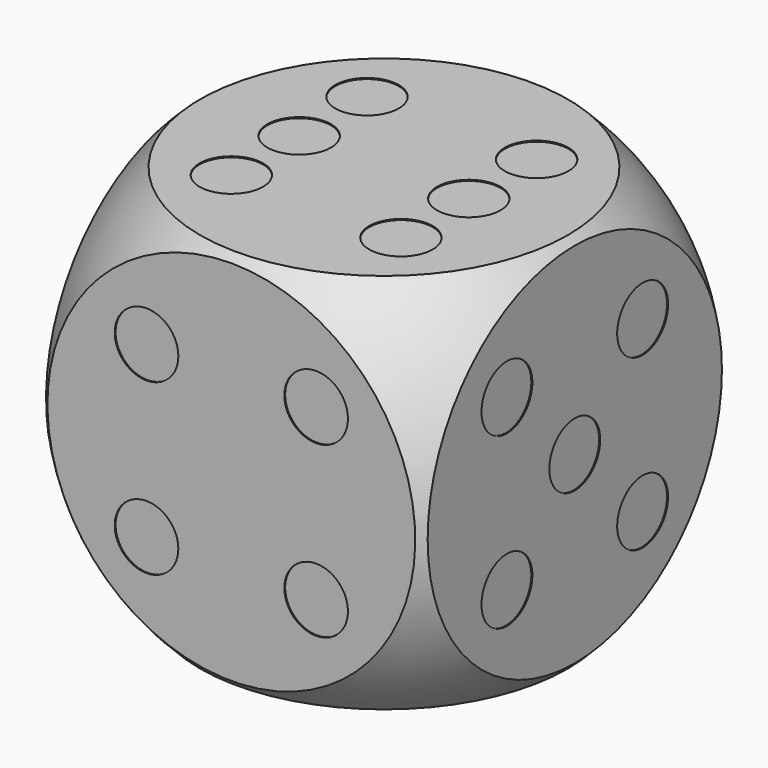
from build123d import *

# Parameters (mm, degrees)
BOX_W           = 36
BOX_H           = 36
BOX_DEPTH       = 36
SKETCH_R        = 3
POCKET_DEPTH    = 0.1
SKETCH001_R     = 3
POCKET001_DEPTH = 0.1
SKETCH002_R     = 3
POCKET002_DEPTH = 0.1
SKETCH003_R     = 3
POCKET003_DEPTH = 0.1
SKETCH004_R     = 3
POCKET004_DEPTH = 0.1
SKETCH005_R     = 3
POCKET005_DEPTH = 0.1


with BuildPart() as sphere:
    # Sphere → Sphere (revolve)
    with BuildSketch(Plane.XZ):
        with BuildLine():
            ThreePointArc((0, -25), (25, 0), (0, 25))
            Line((0, 25), (0, -25))
        make_face()
    revolve(axis=Axis((0, 0, 0), (0, 0, 1)))


with BuildPart() as body:
    # Box → Box (new body)
    with BuildSketch(Plane(origin=(-18, -18, -18), x_dir=(1, 0, 0), z_dir=(0, 0, 1))):
        with Locations((18, 18)):
            Rectangle(BOX_W, BOX_H)
    extrude(amount=BOX_DEPTH)

    # Common: intersect Sphere
    add(sphere.part, mode=Mode.INTERSECT)

    # Sketch (on Face3 of BaseFeature) → Pocket (cut)
    with BuildSketch(Plane.XY.offset(18)):
        with Locations((-8, 8)):
            Circle(SKETCH_R)
        with Locations((8, 8)):
            Circle(SKETCH_R)
        with Locations((8, -8)):
            Circle(SKETCH_R)
        with Locations((-8, -8)):
            Circle(SKETCH_R)
        with Locations((-8, 0)):
            Circle(SKETCH_R)
        with Locations((8, 0)):
            Circle(SKETCH_R)
    extrude(amount=-POCKET_DEPTH, mode=Mode.SUBTRACT)

    # Sketch001 (on Face4 of Pocket) → Pocket001 (cut)
    with BuildSketch(Plane.YZ.offset(18)):
        with Locations((-8, 8)):
            Circle(SKETCH001_R)
        with Locations((8, 8)):
            Circle(SKETCH001_R)
        Circle(SKETCH001_R)
        with Locations((-8, -8)):
            Circle(SKETCH001_R)
        with Locations((8, -8)):
            Circle(SKETCH001_R)
    extrude(amount=-POCKET001_DEPTH, mode=Mode.SUBTRACT)

    # Sketch002 (on Face7 of Pocket001) → Pocket002 (cut)
    with BuildSketch(Plane.XZ.offset(18)):
        with Locations((-8, 8)):
            Circle(SKETCH002_R)
        with Locations((8, 8)):
            Circle(SKETCH002_R)
        with Locations((-8, -8)):
            Circle(SKETCH002_R)
        with Locations((8, -8)):
            Circle(SKETCH002_R)
    extrude(amount=-POCKET002_DEPTH, mode=Mode.SUBTRACT)

    # Sketch003 (on Face6 of Pocket002) → Pocket003 (cut)
    with BuildSketch(Plane(origin=(0, 18, 0), x_dir=(-1, 0, 0), z_dir=(0, 1, 0))):
        with Locations((8, 8)):
            Circle(SKETCH003_R)
        Circle(SKETCH003_R)
        with Locations((-8, -8)):
            Circle(SKETCH003_R)
    extrude(amount=-POCKET003_DEPTH, mode=Mode.SUBTRACT)

    # Sketch004 (on Face1 of Pocket003) → Pocket004 (cut)
    with BuildSketch(Plane(origin=(-18, 0, 0), x_dir=(0, -1, 0), z_dir=(-1, 0, 0))):
        with Locations((8, 8)):
            Circle(SKETCH004_R)
        with Locations((-8, -8)):
            Circle(SKETCH004_R)
    extrude(amount=-POCKET004_DEPTH, mode=Mode.SUBTRACT)

    # Sketch005 (on Face7 of Pocket004) → Pocket005 (cut)
    with BuildSketch(Plane(origin=(0, 0, -18), x_dir=(1, 0, 0), z_dir=(0, 0, -1))):
        Circle(SKETCH005_R)
    extrude(amount=-POCKET005_DEPTH, mode=Mode.SUBTRACT)


solid = body.part
